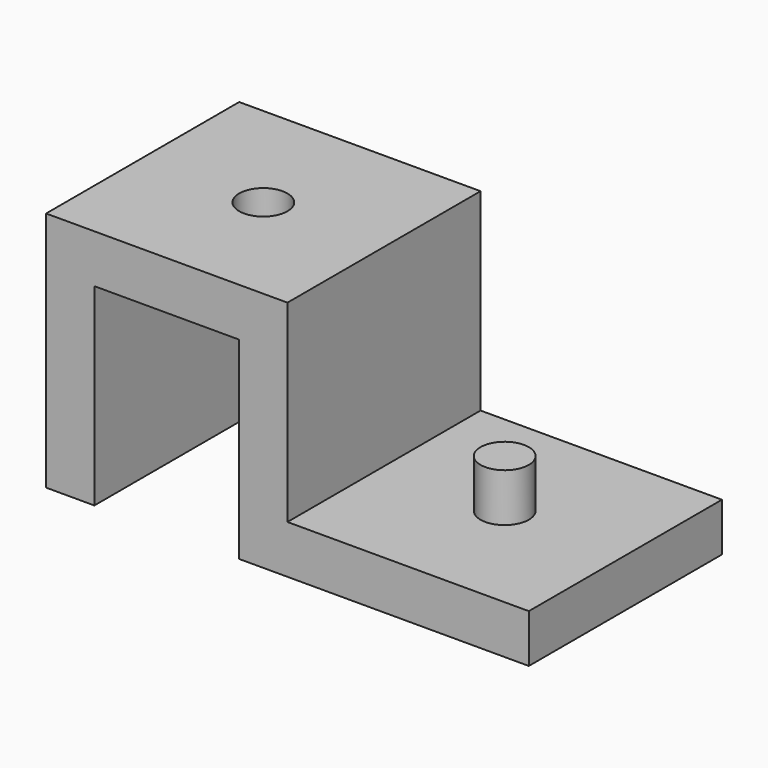
from build123d import *

# Parameters (mm, degrees)
F1_DEPTH = 50
F2_W     = 30
F2_H     = 40
F3_DEPTH = 50.001
F4_R     = 5
F5_DEPTH = 50.001
F6_R     = 5
F7_DEPTH = 10


with BuildPart() as f1:
    # F0 (on Front) → F1 (new body)
    with BuildSketch(Plane.XZ):
        Polygon((0, 50), (0, 0), (100, 0), (100, 10), (50, 10), (50, 50), align=None)
    extrude(amount=F1_DEPTH)

    # F2 (on face) → F3 (cut, through all)
    with BuildSketch(Plane.XZ.offset(50)):
        with Locations((25, 20)):
            Rectangle(F2_W, F2_H)
    extrude(amount=-F3_DEPTH, mode=Mode.SUBTRACT)

    # F4 (on face) → F5 (cut, through all)
    with BuildSketch(Plane.XY.offset(50)):
        with Locations((25, -25)):
            Circle(F4_R)
    extrude(amount=-F5_DEPTH, mode=Mode.SUBTRACT)

    # F6 (on face) → F7 (join)
    with BuildSketch(Plane.XY.offset(10)):
        with Locations((75, -25)):
            Circle(F6_R)
    extrude(amount=F7_DEPTH)


solid = f1.part
